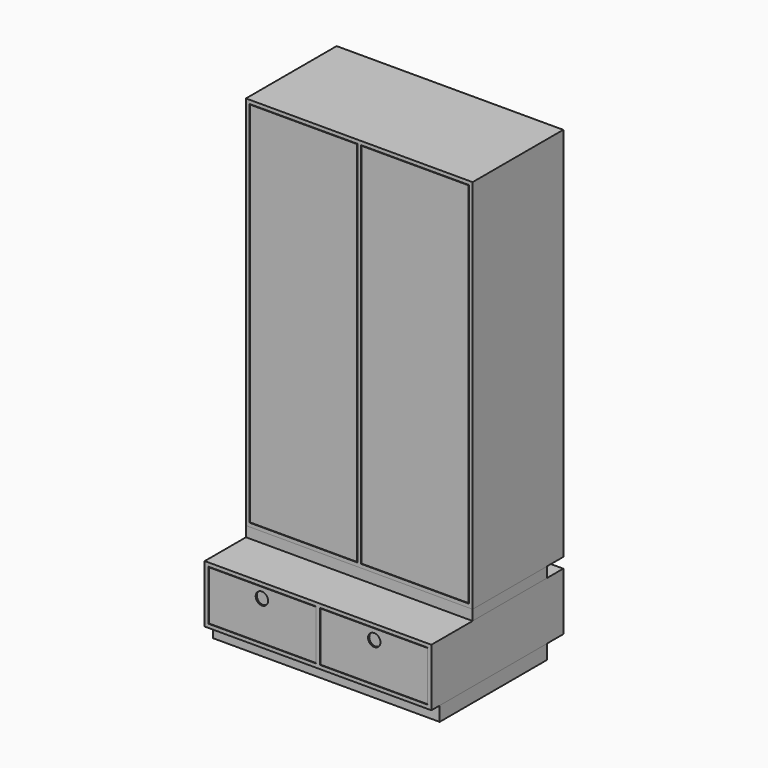
from build123d import *

# Parameters (mm, degrees)
F0_W      = 1100
F0_H      = 800
F1_DEPTH  = 280
F2_T      = -18
F3_W      = 18
F3_H      = 244
F4_DEPTH  = 782
F5_W      = 519
F5_H      = 240
F6_DEPTH  = 18
F8_R      = 30
F9_DEPTH  = 15
F10_R     = 40
F11_DEPTH = 8
F13_W     = 1100
F13_H     = 650
F13_W_2   = 523
F13_H_2   = 614
F14_DEPTH = 70
F15_W     = 1100
F15_H     = 450
F15_W_2   = 523
F15_H_2   = 414
F16_DEPTH = 50
F17_W     = 1100
F17_H     = 550
F18_DEPTH = 1825
F19_T     = -18
F20_W     = 18
F20_H     = 1789
F21_DEPTH = 532
F22_W     = 519
F22_H     = 1785
F23_DEPTH = 18


with BuildPart() as f1:
    # F0 (on Top) → F1 (new body)
    with BuildSketch(Plane.XY):
        with Locations((-550, 400)):
            Rectangle(F0_W, F0_H)
    extrude(amount=F1_DEPTH)

    # F2
    f2_openings = [f1.faces().sort_by_distance(p)[0] for p in [
        (-550, 0, 140),
    ]]
    offset(amount=F2_T, openings=f2_openings)

    # F3 (on face) → F4 (join, through all)
    with BuildSketch(Plane.XZ):
        with Locations((-550, 140)):
            Rectangle(F3_W, F3_H)
    extrude(amount=-F4_DEPTH)


with BuildPart() as f6:
    # F5 (on face) → F6 (new body)
    with BuildSketch(Plane.XZ):
        with Locations((-820.5, 140)):
            Rectangle(F5_W, F5_H)
    extrude(amount=-F6_DEPTH)

    # F8 (on face) → F9 (cut)
    with BuildSketch(Plane.XZ):
        with Locations((-822.75, 210)):
            Circle(F8_R)
    extrude(amount=-F9_DEPTH, mode=Mode.SUBTRACT)

    # F10 (on face) → F11 (cut)
    with BuildSketch(Plane.XZ.offset(-15)):
        with Locations((-822.75, 210)):
            Circle(F10_R)
    extrude(amount=F11_DEPTH, mode=Mode.SUBTRACT)


with BuildPart() as f12_1:
    # F12: instance of F6
    add(f6.part.mirror(Plane(origin=(-550, 400, 140), x_dir=(0, 1, 0), z_dir=(1, 0, 0))))


with BuildPart() as f14:
    # F13 (on face) → F14 (new body)
    with BuildSketch(Plane(origin=(0, 0, 0), x_dir=(1, 0, 0), z_dir=(0, 0, -1))):
        with Locations((-550, -375)):
            Rectangle(F13_W, F13_H)
        with Locations((-820.5, -375)):
            Rectangle(F13_W_2, F13_H_2, mode=Mode.SUBTRACT)
        with Locations((-279.5, -375)):
            Rectangle(F13_W_2, F13_H_2, mode=Mode.SUBTRACT)
    extrude(amount=F14_DEPTH)


with BuildPart() as f16:
    # F15 (on face) → F16 (new body)
    with BuildSketch(Plane.XY.offset(280)):
        with Locations((-550, 475)):
            Rectangle(F15_W, F15_H)
        with Locations((-820.5, 475)):
            Rectangle(F15_W_2, F15_H_2, mode=Mode.SUBTRACT)
        with Locations((-279.5, 475)):
            Rectangle(F15_W_2, F15_H_2, mode=Mode.SUBTRACT)
    extrude(amount=F16_DEPTH)


with BuildPart() as f18:
    # F17 (on face) → F18 (new body)
    with BuildSketch(Plane.XY.offset(330)):
        with Locations((-550, 525)):
            Rectangle(F17_W, F17_H)
    extrude(amount=F18_DEPTH)

    # F19
    f19_openings = [f18.faces().sort_by_distance(p)[0] for p in [
        (-550, 250, 1242.5),
    ]]
    offset(amount=F19_T, openings=f19_openings)

    # F20 (on face) → F21 (join, through all)
    with BuildSketch(Plane.XZ.offset(-250)):
        with Locations((-550, 1242.5)):
            Rectangle(F20_W, F20_H)
    extrude(amount=-F21_DEPTH)


with BuildPart() as f23:
    # F22 (on face) → F23 (new body)
    with BuildSketch(Plane.XZ.offset(-250)):
        with Locations((-820.5, 1242.5)):
            Rectangle(F22_W, F22_H)
    extrude(amount=-F23_DEPTH)


with BuildPart() as f23b:
    # F22 (on face) → F23, piece 2 (new body)
    with BuildSketch(Plane.XZ.offset(-250)):
        with Locations((-279.5, 1242.5)):
            Rectangle(F22_W, F22_H)
    extrude(amount=-F23_DEPTH)


solid = Compound([f1.part, f6.part, f12_1.part, f14.part, f16.part, f18.part, f23.part, f23b.part])
